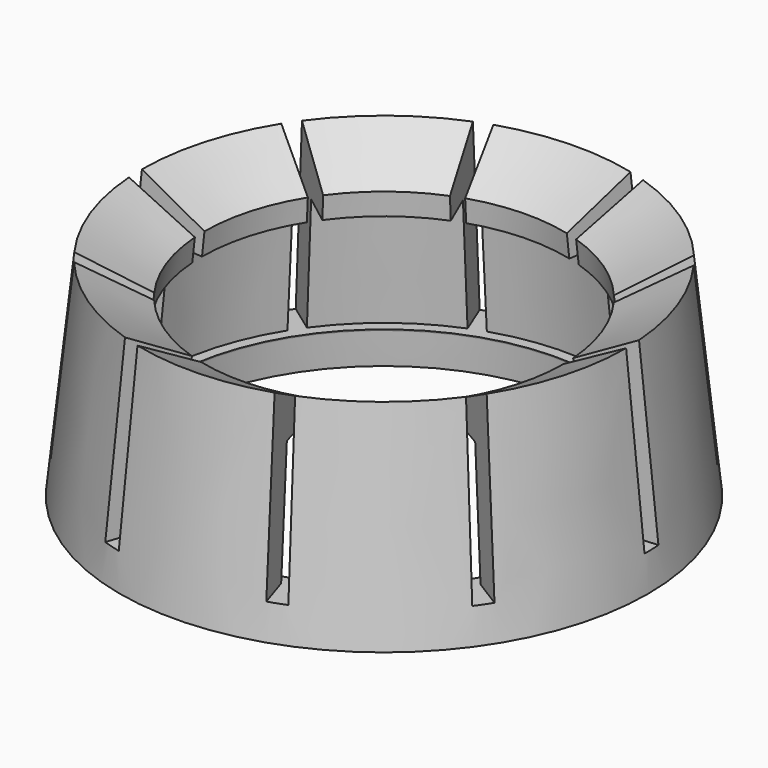
from build123d import *

# Parameters (mm, degrees)
F3_DEPTH = 25


with BuildPart() as f1:
    # F0 (on Front) → F1 (revolve)
    with BuildSketch(Plane.XZ):
        Polygon((10.00551, 0), (12, 0), (11, 9.5), (8.158451, 7.942227), (8.268652, 6.895315), (9.770056, 6.973901), (10.340747, 1.552342), (9.842105, 1.552342), (9.847668, 1.499501), align=None)
    revolve(axis=Axis((0, 0, 3.5), (0, 0, 1)))

    # F2 (on face) → F3 (cut)
    with BuildSketch(Plane.XY.offset(1.552342)):
        Polygon((-13.189999, -0.922335), (0, 0), (-13.189999, 0), align=None)
        Polygon((-10.128799, -8.499072), (0, 0), (-10.670934, -7.752887), align=None)
        Polygon((-3.198742, -12.829452), (0, 0), (-4.075934, -12.544435), align=None)
        Polygon((4.953126, -12.259418), (0, 0), (4.075934, -12.544435), align=None)
        Polygon((11.213068, -7.006703), (0, 0), (10.670934, -7.752887), align=None)
        Polygon((13.189999, 0.922335), (0, 0), (13.189999, 0), align=None)
        Polygon((10.128799, 8.499072), (0, 0), (10.670934, 7.752887), align=None)
        Polygon((3.198742, 12.829452), (0, 0), (4.075934, 12.544435), align=None)
        Polygon((-4.953126, 12.259418), (0, 0), (-4.075934, 12.544435), align=None)
        Polygon((-11.213068, 7.006703), (0, 0), (-10.670934, 7.752887), align=None)
    extrude(amount=F3_DEPTH, mode=Mode.SUBTRACT)


solid = f1.part
